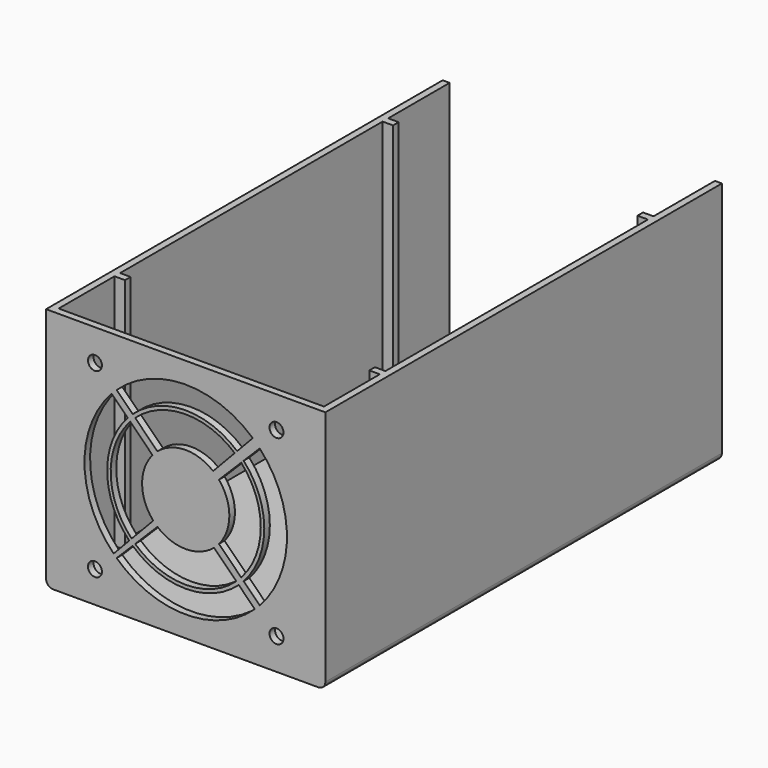
from build123d import *

# Parameters (mm, degrees)
F0_W      = 80
F0_H      = 70
F1_DEPTH  = 2
F2_W      = 80
F2_H      = 140
F3_DEPTH  = 2
F4_W      = 140
F4_H      = 68
F5_DEPTH  = 2
F6_W      = 140
F6_H      = 68
F7_DEPTH  = 2
F8_R      = 2
F9_DEPTH  = 2
F10_R     = 2
F11_R     = 1.5
F12_DEPTH = 4
F13_DEPTH = 8
F14_DEPTH = 8
F15_W     = 2
F15_H     = 68
F16_DEPTH = 3
F17_W     = 2
F17_H     = 68
F18_DEPTH = 3


with BuildPart() as f1:
    # F0 (on Front) → F1 (new body)
    with BuildSketch(Plane.XZ):
        with Locations((0, 35)):
            Rectangle(F0_W, F0_H)
    extrude(amount=F1_DEPTH)

    # F2 (on Top) → F3 (join)
    with BuildSketch(Plane.XY):
        with Locations((0, 70)):
            Rectangle(F2_W, F2_H)
    extrude(amount=F3_DEPTH)

    # F4 (on face) → F5 (join)
    with BuildSketch(Plane(origin=(-40, 0, 0), x_dir=(0, -1, 0), z_dir=(-1, 0, 0))):
        with Locations((-70, 36)):
            Rectangle(F4_W, F4_H)
    extrude(amount=-F5_DEPTH)

    # F6 (on face) → F7 (join)
    with BuildSketch(Plane.YZ.offset(40)):
        with Locations((70, 36)):
            Rectangle(F6_W, F6_H)
    extrude(amount=-F7_DEPTH)

    # F8 (on face) → F9 (cut)
    with BuildSketch(Plane.XZ.offset(2)):
        with BuildLine():
            Line((-9.5176118745, 43.1033983122), (-15.8934493297, 49.4792357673))
            ThreePointArc((-15.8934493297, 49.4792357673), (-21.4980117445, 34.7076115032), (-15.4937871876, 20.0938751318))
            Line((-15.4937871876, 20.0938751318), (-9.2937080159, 26.640754142))
            ThreePointArc((-9.2937080159, 26.640754142), (-12.4988440375, 34.8300066879), (-9.5176118745, 43.1033983122))
        make_face()
        with BuildLine():
            Line((-16.6012881064, 50.1870745441), (-21.2010083131, 54.7867947507))
            ThreePointArc((-21.2010083131, 54.7867947507), (-28.997318167, 34.6056155159), (-20.6550363783, 14.6439327912))
            Line((-20.6550363783, 14.6439327912), (-16.1821134643, 19.3670475013))
            ThreePointArc((-16.1821134643, 19.3670475013), (-22.4979192675, 34.6940120382), (-16.6012881064, 50.1870745441))
        make_face()
        with Locations((-26, 61)):
            Circle(F8_R)
        with BuildLine():
            ThreePointArc((19.2028843822, 56.731296128), (-0.3943844841, 63.997318167), (-19.7867947507, 56.2010083131))
            Line((-19.7867947507, 56.2010083131), (-15.1870745441, 51.6012881064))
            ThreePointArc((-15.1870745441, 51.6012881064), (-0.3059879618, 57.4979192675), (14.7299614682, 52.0081814179))
            Line((14.7299614682, 52.0081814179), (19.2028843822, 56.731296128))
        make_face()
        with BuildLine():
            ThreePointArc((14.0416351915, 51.2813537874), (-0.2923884968, 56.4980117445), (-14.4792357673, 50.8934493297))
            Line((-14.4792357673, 50.8934493297), (-8.1033983122, 44.5176118745))
            ThreePointArc((-8.1033983122, 44.5176118745), (-0.1699933121, 47.4988440375), (7.8415560198, 44.7344747772))
            Line((7.8415560198, 44.7344747772), (14.0416351915, 51.2813537874))
        make_face()
        with BuildLine():
            Line((9.5176118745, 26.8966016878), (15.8934493297, 20.5207642327))
            ThreePointArc((15.8934493297, 20.5207642327), (21.5, 35), (15.8934493297, 49.4792357673))
            Line((15.8934493297, 49.4792357673), (9.5176118745, 43.1033983122))
            ThreePointArc((9.5176118745, 43.1033983122), (12.5, 35), (9.5176118745, 26.8966016878))
        make_face()
        with BuildLine():
            Line((21.2010083131, 54.7867947507), (16.6012881064, 50.1870745441))
            ThreePointArc((16.6012881064, 50.1870745441), (22.5, 35), (16.6012881064, 19.8129254559))
            Line((16.6012881064, 19.8129254559), (21.2010083131, 15.2132052493))
            ThreePointArc((21.2010083131, 15.2132052493), (29, 35), (21.2010083131, 54.7867947507))
        make_face()
        with Locations((26, 61)):
            Circle(F8_R)
        with Locations((26, 9)):
            Circle(F8_R)
        with BuildLine():
            Line((-15.1870745441, 18.3987118936), (-19.7867947507, 13.7989916869))
            ThreePointArc((-19.7867947507, 13.7989916869), (0, 6), (19.7867947507, 13.7989916869))
            Line((19.7867947507, 13.7989916869), (15.1870745441, 18.3987118936))
            ThreePointArc((15.1870745441, 18.3987118936), (0, 12.5), (-15.1870745441, 18.3987118936))
        make_face()
        with BuildLine():
            ThreePointArc((8.1033983122, 25.4823881255), (0, 22.5), (-8.1033983122, 25.4823881255))
            Line((-8.1033983122, 25.4823881255), (-14.4792357673, 19.1065506703))
            ThreePointArc((-14.4792357673, 19.1065506703), (0, 13.5), (14.4792357673, 19.1065506703))
            Line((14.4792357673, 19.1065506703), (8.1033983122, 25.4823881255))
        make_face()
        with Locations((-26, 9)):
            Circle(F8_R)
    extrude(amount=-F9_DEPTH, mode=Mode.SUBTRACT)

    # F10
    f10_edges = [f1.edges().sort_by_distance(p)[0] for p in [
        (40, 69, 0),
        (-40, 69, 0),
    ]]
    fillet(f10_edges, radius=F10_R)

    # F11 (on face) → F12 (join)
    with BuildSketch(Plane.XY.offset(2)):
        with BuildLine():
            ThreePointArc((-21.15, 117.6), (-23.2839745962, 120.4722813233), (-26.65, 119.2583123952))
            Line((-26.65, 119.2583123952), (-26.65, 115.9416876048))
            ThreePointArc((-26.65, 115.9416876048), (-23.2839745962, 114.7277186767), (-21.15, 117.6))
        make_face()
        with Locations((-24.15, 117.6)):
            Circle(F11_R, mode=Mode.SUBTRACT)
        with BuildLine():
            Line((26.65, 114.6416876048), (26.65, 117.9583123952))
            ThreePointArc((26.65, 117.9583123952), (21.15, 116.3), (26.65, 114.6416876048))
        make_face()
        with Locations((24.15, 116.3)):
            Circle(F11_R, mode=Mode.SUBTRACT)
        with BuildLine():
            ThreePointArc((-21.15, 35), (-23.2839745962, 37.8722813233), (-26.65, 36.6583123952))
            Line((-26.65, 36.6583123952), (-26.65, 33.3416876048))
            ThreePointArc((-26.65, 33.3416876048), (-23.2839745962, 32.1277186767), (-21.15, 35))
        make_face()
        with Locations((-24.15, 35)):
            Circle(F11_R, mode=Mode.SUBTRACT)
        with BuildLine():
            Line((26.65, 39.7416876048), (26.65, 43.0583123952))
            ThreePointArc((26.65, 43.0583123952), (21.15, 41.4), (26.65, 39.7416876048))
        make_face()
        with Locations((24.15, 41.4)):
            Circle(F11_R, mode=Mode.SUBTRACT)
        with Locations((24.15, 116.3)):
            Circle(F11_R)
        with BuildLine():
            ThreePointArc((27.15, 116.3), (27.0222813233, 117.1660254038), (26.65, 117.9583123952))
            Line((26.65, 117.9583123952), (26.65, 114.6416876048))
            ThreePointArc((26.65, 114.6416876048), (27.0222813233, 115.4339745962), (27.15, 116.3))
        make_face()
        with BuildLine():
            Line((-26.65, 115.9416876048), (-26.65, 119.2583123952))
            ThreePointArc((-26.65, 119.2583123952), (-27.15, 117.6), (-26.65, 115.9416876048))
        make_face()
        with BuildLine():
            ThreePointArc((27.15, 41.4), (27.0222813233, 42.2660254038), (26.65, 43.0583123952))
            Line((26.65, 43.0583123952), (26.65, 39.7416876048))
            ThreePointArc((26.65, 39.7416876048), (27.0222813233, 40.5339745962), (27.15, 41.4))
        make_face()
        with BuildLine():
            Line((-26.65, 33.3416876048), (-26.65, 36.6583123952))
            ThreePointArc((-26.65, 36.6583123952), (-27.15, 35), (-26.65, 33.3416876048))
        make_face()
    extrude(amount=F12_DEPTH)

    # F11 (on face) → F13 (join)
    with BuildSketch(Plane.XY.offset(2)):
        with Locations((-24.15, 35)):
            Circle(F11_R)
        with Locations((-24.15, 117.6)):
            Circle(F11_R)
    extrude(amount=F13_DEPTH)

    # F11 (on face) → F14 (join)
    with BuildSketch(Plane.XY.offset(2)):
        with Locations((24.15, 41.4)):
            Circle(F11_R)
    extrude(amount=F14_DEPTH)

    # F15 (on face) → F16 (join)
    with BuildSketch(Plane(origin=(38, 0, 0), x_dir=(0, -1, 0), z_dir=(-1, 0, 0))):
        with Locations((-117, 36)):
            Rectangle(F15_W, F15_H)
        with Locations((-21, 36)):
            Rectangle(F15_W, F15_H)
    extrude(amount=F16_DEPTH)

    # F17 (on face) → F18 (join)
    with BuildSketch(Plane.YZ.offset(-38)):
        with Locations((21, 36)):
            Rectangle(F17_W, F17_H)
        with Locations((117, 36)):
            Rectangle(F17_W, F17_H)
    extrude(amount=F18_DEPTH)


solid = f1.part
